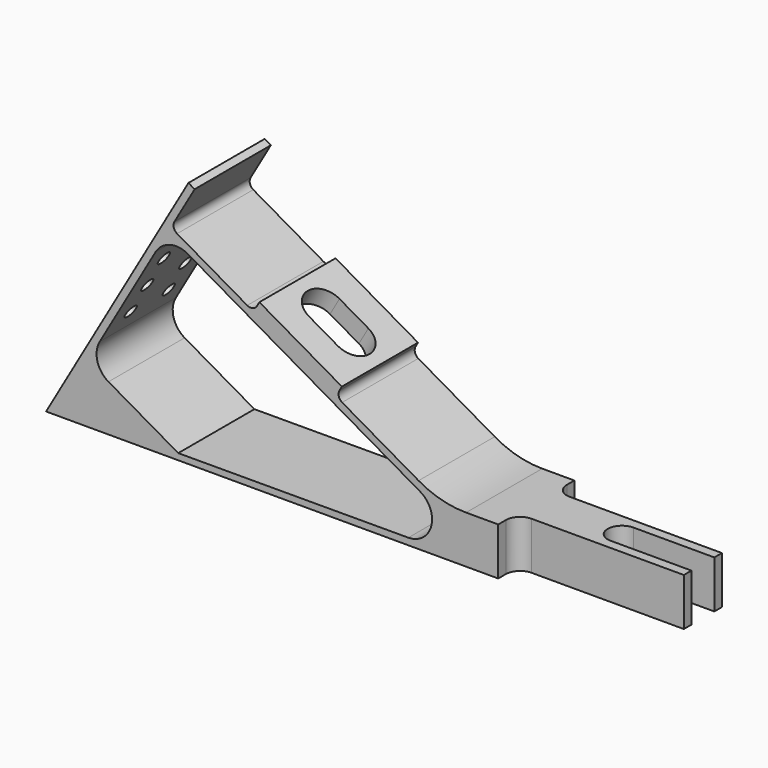
from build123d import *

# Parameters (mm, degrees)
F1_DEPTH  = 20
F2_R      = 4.25
F2_R_2    = 1.395
F3_DEPTH  = 30
F2_R_3    = 5.5
F4_DEPTH  = 2
F6_DEPTH  = 25
F8_DEPTH  = 10.001
F10_DEPTH = 15


with BuildPart() as f1:
    # F0 (on Front) → F1 (new body)
    with BuildSketch(Plane.XZ):
        with BuildLine():
            Line((29.9143858576, 52.0108596234), (0, 0))
            Line((0, 0), (130, 0))
            Line((130, 0), (130, 10))
            Line((130, 10), (88.2409628552, 10))
            ThreePointArc((88.2409628552, 10), (83.0804911789, 10.6772276296), (78.2695009027, 12.6630467922))
            Line((78.2695009027, 12.6630467922), (62.2031042781, 21.9037398215))
            ThreePointArc((62.2031042781, 21.9037398215), (61.5027165088, 22.8133971511), (61.650692434, 23.9518709585))
            Line((61.650692434, 23.9518709585), (62.1492655316, 24.8187186189))
            Line((62.1492655316, 24.8187186189), (44.8123123238, 34.7901805715))
            Line((44.8123123238, 34.7901805715), (44.3137392262, 33.9233329111))
            ThreePointArc((44.3137392262, 33.9233329111), (43.4040818966, 33.2229451418), (42.2656080891, 33.3709210669))
            Line((42.2656080891, 33.3709210669), (27.5291978625, 41.8466637266))
            ThreePointArc((27.5291978625, 41.8466637266), (26.8288100932, 42.7563210562), (26.9767860184, 43.8947948636))
            Line((26.9767860184, 43.8947948636), (31.2146573482, 51.2629999769))
            Line((31.2146573482, 51.2629999769), (29.9143858576, 52.0108596234))
        make_face()
        with BuildLine():
            Line((27.7705867405, 1.3316440692), (13.1131062569, 9.7619897713))
            ThreePointArc((13.1131062569, 9.7619897713), (10.7784803592, 12.7941808699), (11.2717334431, 16.5890935613))
            Line((11.2717334431, 16.5890935613), (22.9882012374, 36.9600135805))
            ThreePointArc((22.9882012374, 36.9600135805), (26.020392336, 39.2946394782), (29.8153050274, 38.8013863943))
            Line((29.8153050274, 38.8013863943), (78.5948983283, 10.7454844818))
            ThreePointArc((78.5948983283, 10.7454844818), (80.9337866185, 5.1251064419), (76.1102671502, 1.4112529602))
            Line((76.1102671502, 1.4112529602), (27.7705867405, 1.3316440692))
        make_face(mode=Mode.SUBTRACT)
    extrude(amount=F1_DEPTH)

    # F2 (on face) → F3 (cut)
    with BuildSketch(Plane(origin=(0, 0, 0), x_dir=(0, -1, 0), z_dir=(-0.8668476604, 0, 0.4985730976))):
        with Locations((10, 7.5)):
            Circle(F2_R)
        with Locations((5, 39)):
            Circle(F2_R_2)
        with Locations((5, 32)):
            Circle(F2_R_2)
        with Locations((15, 32)):
            Circle(F2_R_2)
        with Locations((15, 39)):
            Circle(F2_R_2)
        with Locations((5, 25)):
            Circle(F2_R_2)
        with Locations((15, 25)):
            Circle(F2_R_2)
    extrude(amount=-F3_DEPTH, mode=Mode.SUBTRACT)

    # F2 (on face) → F4 (cut)
    with BuildSketch(Plane(origin=(0, 0, 0), x_dir=(0, -1, 0), z_dir=(-0.8668476604, 0, 0.4985730976))):
        with Locations((10, 7.5)):
            Circle(F2_R_3)
        with Locations((10, 7.5)):
            Circle(F2_R, mode=Mode.SUBTRACT)
    extrude(amount=-F4_DEPTH, mode=Mode.SUBTRACT)

    # F5 (on face) → F6 (cut)
    with BuildSketch(Plane.XY.offset(10)):
        with BuildLine():
            Line((95, -18), (95, -20))
            Line((95, -20), (130, -20))
            Line((130, -20), (130, -15))
            Line((130, -15), (98, -15))
            ThreePointArc((98, -15), (95.8786796564, -15.8786796564), (95, -18))
        make_face()
        with BuildLine():
            Line((130, 0), (95, 0))
            Line((95, 0), (95, -2))
            ThreePointArc((95, -2), (95.8786796564, -4.1213203436), (98, -5))
            Line((98, -5), (130, -5))
            Line((130, -5), (130, 0))
        make_face()
    extrude(amount=-F6_DEPTH, mode=Mode.SUBTRACT)

    # F7 (on face) → F8 (cut, through all)
    with BuildSketch(Plane.XY.offset(10)):
        with BuildLine():
            Line((130, -13), (130, -7))
            Line((130, -7), (113, -7))
            ThreePointArc((113, -7), (110, -10), (113, -13))
            Line((113, -13), (130, -13))
        make_face()
    extrude(amount=-F8_DEPTH, mode=Mode.SUBTRACT)

    # F9 (on face) → F10 (cut)
    with BuildSketch(Plane(origin=(26.1750876254, 0, 45.5095021704), x_dir=(0.8668476604, 0, -0.4985730976), z_dir=(0.4985730976, 0, 0.8668476604))):
        with BuildLine():
            ThreePointArc((28, -6), (24, -10), (28, -14))
            Line((28, -14), (35, -14))
            ThreePointArc((35, -14), (39, -10), (35, -6))
            Line((35, -6), (28, -6))
        make_face()
    extrude(amount=-F10_DEPTH, mode=Mode.SUBTRACT)


solid = f1.part
